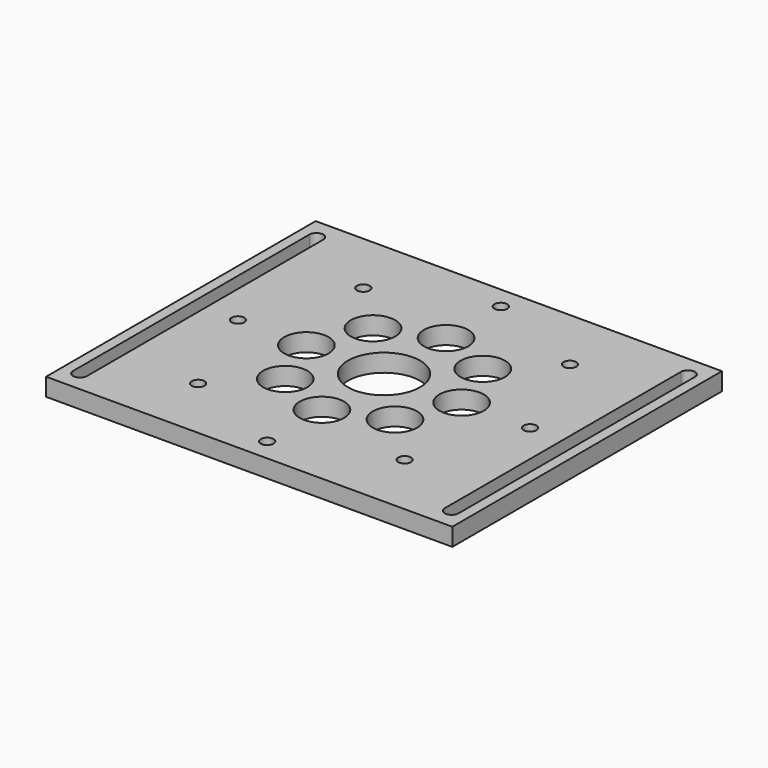
from build123d import *

# Parameters (mm, degrees)
SKETCH018_W           = 183.25
SKETCH018_H           = 152
SKETCH018_R           = 16.28
PAD006_DEPTH          = 8
SKETCH019_R           = 2.875
POCKET007_DEPTH       = 100
POCKET007_DEPTH_BACK  = 100
SKETCH020_R           = 5
POCKET008_DEPTH       = 3.1
SKETCH021_R           = 10
POCKET009_DEPTH       = 100
POCKET009_DEPTH_BACK  = 100
POLARPATTERN002_COUNT = 8


with BuildPart() as part:
    # Sketch018 → Pad006 (new body)
    with BuildSketch(Plane.XY):
        Rectangle(SKETCH018_W, SKETCH018_H)
        Circle(SKETCH018_R, mode=Mode.SUBTRACT)
        with BuildLine():
            ThreePointArc((-80.6875, 66.625), (-83.8125, 69.75), (-86.9375, 66.625))
            Line((-86.9375, 66.625), (-86.9375, -66.625))
            ThreePointArc((-86.9375, -66.625), (-83.8125, -69.75), (-80.6875, -66.625))
            Line((-80.6875, -66.625), (-80.6875, 66.625))
        make_face(mode=Mode.SUBTRACT)
        with BuildLine():
            ThreePointArc((86.9375, 66.625), (83.8125, 69.75), (80.6875, 66.625))
            Line((80.6875, 66.625), (80.6875, -66.625))
            ThreePointArc((80.6875, -66.625), (83.8125, -69.75), (86.9375, -66.625))
            Line((86.9375, -66.625), (86.9375, 66.625))
        make_face(mode=Mode.SUBTRACT)
    extrude(amount=PAD006_DEPTH)

    # Sketch019 (on Face15 of Pad006) → Pocket007 (cut, two sides)
    with BuildSketch(Plane.XY.offset(8)) as pocket007_sk:
        with Locations((-46.585079, 46.585079)):
            Circle(SKETCH019_R)
        with Locations((-46.585079, -46.585079)):
            Circle(SKETCH019_R)
        with Locations((46.585079, 46.585079)):
            Circle(SKETCH019_R)
        with Locations((46.585079, -46.585079)):
            Circle(SKETCH019_R)
        with Locations((-65.88125, 0)):
            Circle(SKETCH019_R)
        with Locations((0, -65.88125)):
            Circle(SKETCH019_R)
        with Locations((65.88125, 0)):
            Circle(SKETCH019_R)
        with Locations((0, 65.88125)):
            Circle(SKETCH019_R)
    extrude(amount=-POCKET007_DEPTH, mode=Mode.SUBTRACT)
    extrude(pocket007_sk.sketch, amount=POCKET007_DEPTH_BACK, mode=Mode.SUBTRACT)

    # Sketch020 (on Face4 of Pocket007) → Pocket008 (cut)
    with BuildSketch(Plane(origin=(0, 0, 0), x_dir=(1, 0, 0), z_dir=(0, 0, -1))):
        with Locations((-46.585079, 46.585079)):
            Circle(SKETCH020_R)
        with Locations((46.585079, 46.585079)):
            Circle(SKETCH020_R)
        with Locations((46.585079, -46.585079)):
            Circle(SKETCH020_R)
        with Locations((-46.585079, -46.585079)):
            Circle(SKETCH020_R)
    extrude(amount=-POCKET008_DEPTH, mode=Mode.SUBTRACT)

    # Sketch021 (on Face5 of Pocket008) → Pocket009 (cut, two sides)
    with BuildSketch(Plane.XY.offset(8)) as pocket009_sk:
        with Locations((-35, 0)):
            Circle(SKETCH021_R)
    pocket009 = extrude(amount=-POCKET009_DEPTH, mode=Mode.SUBTRACT) + extrude(pocket009_sk.sketch, amount=POCKET009_DEPTH_BACK, mode=Mode.SUBTRACT)

    # PolarPattern002: Pocket009 ×8 about axis
    polarpattern002_axis = Axis((0, 0, 8), (0, 0, 1))
    for i in range(1, POLARPATTERN002_COUNT):
        add(pocket009.rotate(polarpattern002_axis, i * 360 / POLARPATTERN002_COUNT), mode=Mode.SUBTRACT)


solid = part.part
